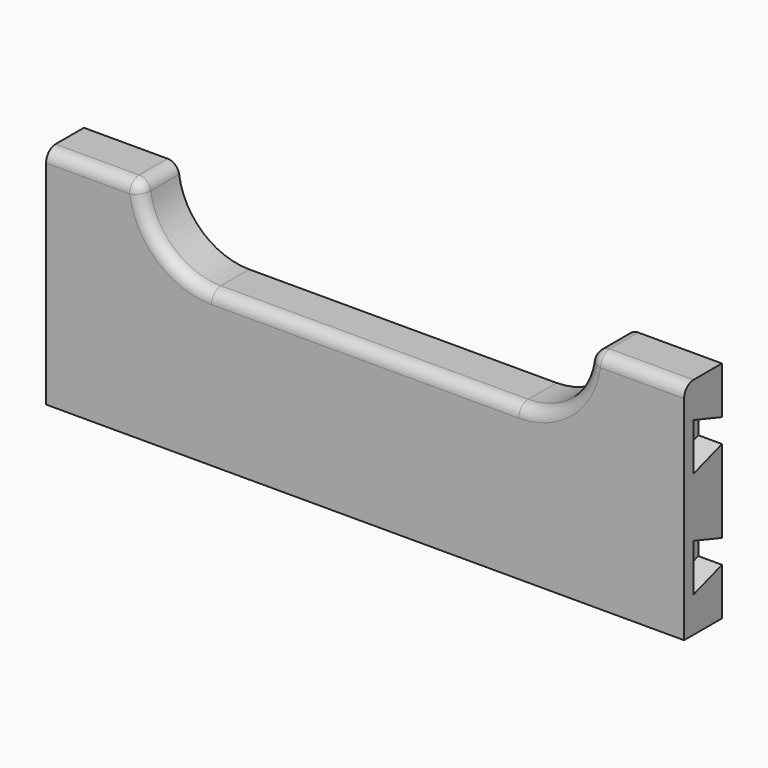
from build123d import *

# Parameters (mm, degrees)
F1_DEPTH  = 20
F2_R      = 5
F3_R      = 5
F10_DEPTH = 10
F9_W      = 256
F9_H      = 5
F12_DEPTH = 5
F13_R     = 5


with BuildPart() as f1:
    # F0 (on Front) → F1 (new body)
    with BuildSketch(Plane.XZ):
        with BuildLine():
            ThreePointArc((-71.9452356547, 3.7722354652), (-93.1584390903, 12.5590320296), (-101.9452356547, 33.7722354652))
            Line((-101.9452356547, 33.7722354652), (-141.9452356547, 33.7722354652))
            Line((-141.9452356547, 33.7722354652), (-141.9452356547, -61.2277645348))
            Line((-141.9452356547, -61.2277645348), (128.0547643453, -61.2277645348))
            Line((128.0547643453, -61.2277645348), (128.0547643453, 33.7722354652))
            Line((128.0547643453, 33.7722354652), (88.0547643453, 33.7722354652))
            ThreePointArc((88.0547643453, 33.7722354652), (79.2679677809, 12.5590320296), (58.0547643453, 3.7722354652))
            Line((58.0547643453, 3.7722354652), (-71.9452356547, 3.7722354652))
        make_face()
    extrude(amount=F1_DEPTH)

    # F2
    f2_edges = [f1.edges().sort_by_distance(p)[0] for p in [
        (-101.945236, -10, 33.772235),
    ]]
    fillet(f2_edges, radius=F2_R)

    # F3
    f3_edges = [f1.edges().sort_by_distance(p)[0] for p in [
        (88.054764, -10, 33.772235),
    ]]
    fillet(f3_edges, radius=F3_R)

    # F4 (on face) → F10 (cut)
    with BuildSketch(Plane(origin=(-141.9452356547, 0, 0), x_dir=(0, -1, 0), z_dir=(-1, 0, 0))):
        Polygon((0, -31.2277645348), (0, -41.2277645348), (15, -46.2277645348), (15, -26.2277645348), align=None)
        Polygon((0, 13.7722354652), (0, 3.7722354652), (15, -1.2277645348), (15, 18.7722354652), align=None)
    extrude(amount=-F10_DEPTH, mode=Mode.SUBTRACT)

    # F11: F1 across plane


with BuildPart() as f1_1:
    add(f1.part)
    add(f1.part.mirror(Plane(origin=(-6.9452356547, 0, 3.7722354652), x_dir=(0, 0, -1), z_dir=(1, 0, 0))), mode=Mode.INTERSECT)

    # F9 (on face) → F12 (cut)
    with BuildSketch(Plane(origin=(0, 0, 0), x_dir=(-1, 0, 0), z_dir=(0, 1, 0))):
        with Locations((6.9452356547, -53.7277645348)):
            Rectangle(F9_W, F9_H)
    extrude(amount=-F12_DEPTH, mode=Mode.SUBTRACT)

    # F13
    f13_edges = [f1_1.edges().sort_by_distance(p)[0] for p in [
        (-6.945236, -20, 3.772235),
        (-91.584846, -20, 11.094367),
        (77.694374, -20, 11.094367),
        (-103.312983, -20, 32.55188),
        (89.422512, -20, 32.55188),
        (110.375272, -20, 33.772235),
        (-124.265744, -20, 33.772235),
    ]]
    fillet(f13_edges, radius=F13_R)


solid = f1_1.part
